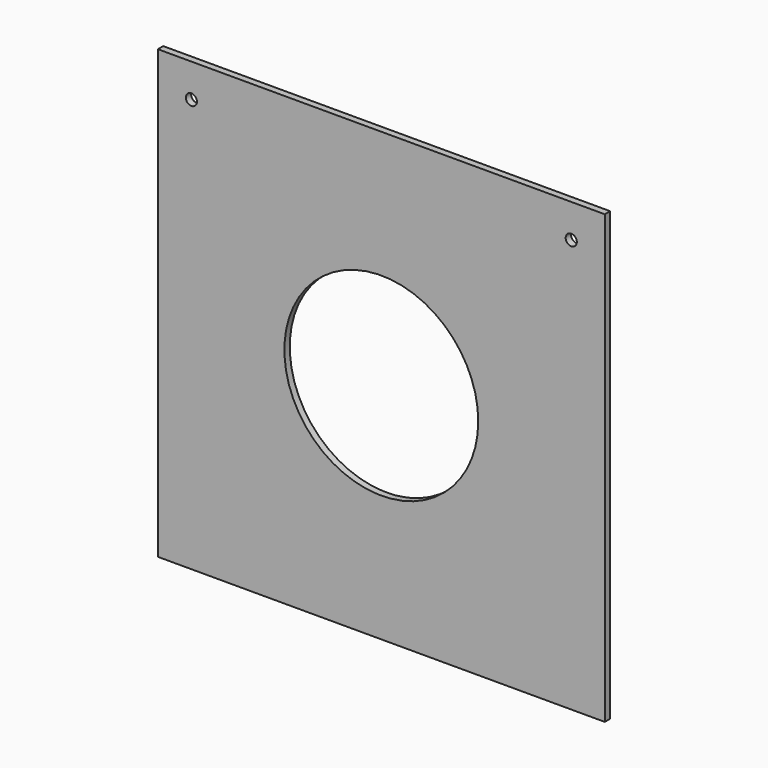
from build123d import *

# Parameters (mm, degrees)
F0_W     = 400
F0_H     = 400
F0_R     = 5
F0_R_2   = 86.75
F1_DEPTH = 1
F2_DEPTH = 5


with BuildPart() as f1:
    # F0 (on Front) → F1 (new body, symmetric)
    with BuildSketch(Plane.XZ):
        Rectangle(F0_W, F0_H)
        with Locations((-170, 170)):
            Circle(F0_R, mode=Mode.SUBTRACT)
        Circle(F0_R_2, mode=Mode.SUBTRACT)
        with Locations((170, 170)):
            Circle(F0_R, mode=Mode.SUBTRACT)
    extrude(amount=F1_DEPTH, both=True)

    # F0 (on Front) → F2 (join)
    with BuildSketch(Plane.XZ):
        Rectangle(F0_W, F0_H)
        with Locations((-170, 170)):
            Circle(F0_R, mode=Mode.SUBTRACT)
        Circle(F0_R_2, mode=Mode.SUBTRACT)
        with Locations((170, 170)):
            Circle(F0_R, mode=Mode.SUBTRACT)
    extrude(amount=F2_DEPTH)


solid = f1.part
